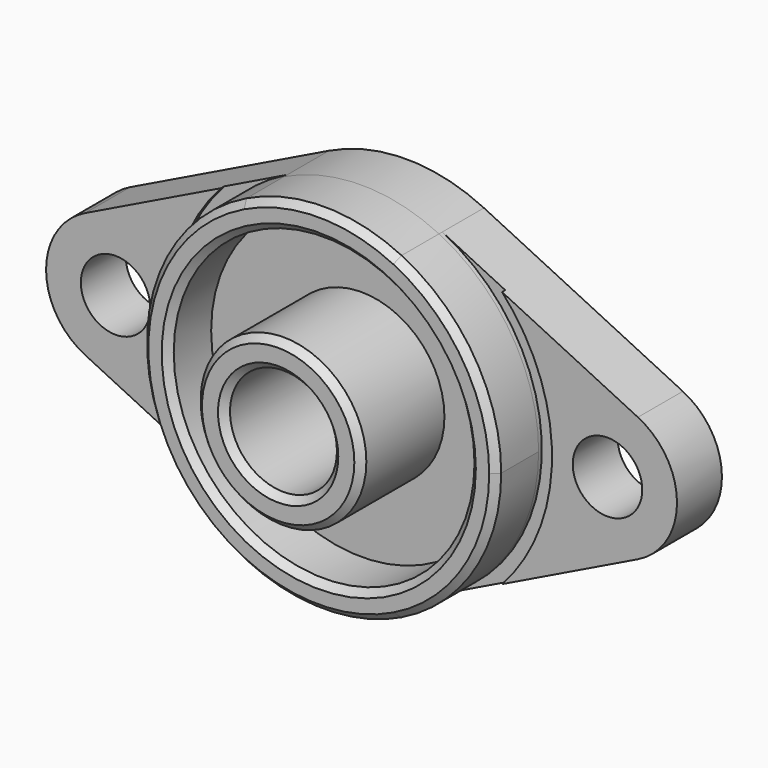
from build123d import *

# Parameters (mm, degrees)
F0_R     = 2.6
F0_R_2   = 4
F1_DEPTH = 4.2
F2_R     = 14.25
F2_R_2   = 13.25
F3_DEPTH = 0.3
F4_R     = 6.2
F4_R_2   = 4
F5_DEPTH = 7.8
F4_R_3   = 11.25
F6_DEPTH = 4
F7_SIZE  = 0.5


with BuildPart() as f1:
    # F0 (on Front) → F1 (new body)
    with BuildSketch(Plane.XZ):
        with BuildLine():
            ThreePointArc((-5.796875, -11.9146439407), (-13.25, 0), (-5.796875, 11.9146439407))
            Line((-5.796875, 11.9146439407), (-20.675, 4.6759357352))
            ThreePointArc((-20.675, 4.6759357352), (-23.6, 0), (-20.675, -4.6759357352))
            Line((-20.675, -4.6759357352), (-5.796875, -11.9146439407))
        make_face()
        with Locations((-18.4, 0)):
            Circle(F0_R, mode=Mode.SUBTRACT)
        with BuildLine():
            ThreePointArc((5.796875, -11.9146439407), (11.2332340346, -7.026873638), (13.25, 0))
            ThreePointArc((13.25, 0), (11.2332340346, 7.026873638), (5.796875, 11.9146439407))
            ThreePointArc((5.796875, 11.9146439407), (0, 13.25), (-5.796875, 11.9146439407))
            ThreePointArc((-5.796875, 11.9146439407), (-13.25, 0), (-5.796875, -11.9146439407))
            ThreePointArc((-5.796875, -11.9146439407), (0, -13.25), (5.796875, -11.9146439407))
        make_face()
        Circle(F0_R_2, mode=Mode.SUBTRACT)
        with BuildLine():
            ThreePointArc((5.796875, 11.9146439407), (11.2332340346, 7.026873638), (13.25, 0))
            ThreePointArc((13.25, 0), (11.2332340346, -7.026873638), (5.796875, -11.9146439407))
            Line((5.796875, -11.9146439407), (20.675, -4.6759357352))
            ThreePointArc((20.675, -4.6759357352), (23.6, 0), (20.675, 4.6759357352))
            Line((20.675, 4.6759357352), (5.796875, 11.9146439407))
        make_face()
        with Locations((18.4, 0)):
            Circle(F0_R, mode=Mode.SUBTRACT)
    extrude(amount=F1_DEPTH)

    # F2 (on face) → F3 (cut)
    with BuildSketch(Plane.XZ.offset(4.2)):
        Circle(F2_R)
        Circle(F2_R_2, mode=Mode.SUBTRACT)
    extrude(amount=-F3_DEPTH, mode=Mode.SUBTRACT)

    # F4 (on face) → F5 (join)
    with BuildSketch(Plane.XZ.offset(4.2)):
        Circle(F4_R)
        Circle(F4_R_2, mode=Mode.SUBTRACT)
    extrude(amount=F5_DEPTH)

    # F4 (on face) → F6 (join)
    with BuildSketch(Plane.XZ.offset(4.2)):
        with BuildLine():
            ThreePointArc((5.796875, -11.9146439407), (11.2332340346, -7.026873638), (13.25, 0))
            ThreePointArc((13.25, 0), (11.2332340346, 7.026873638), (5.796875, 11.9146439407))
            ThreePointArc((5.796875, 11.9146439407), (0, 13.25), (-5.796875, 11.9146439407))
            ThreePointArc((-5.796875, 11.9146439407), (-13.25, 0), (-5.796875, -11.9146439407))
            ThreePointArc((-5.796875, -11.9146439407), (0, -13.25), (5.796875, -11.9146439407))
        make_face()
        Circle(F4_R_3, mode=Mode.SUBTRACT)
    extrude(amount=F6_DEPTH)

    # F7
    f7_edges = [f1.edges().sort_by_distance(p)[0] for p in [
        (-4, -12, 0),
        (-6.2, -12, 0),
        (-11.25, -8.2, 0),
        (5.796875, -8.2, -11.914644),
    ]]
    chamfer(f7_edges, length=F7_SIZE)


solid = f1.part
